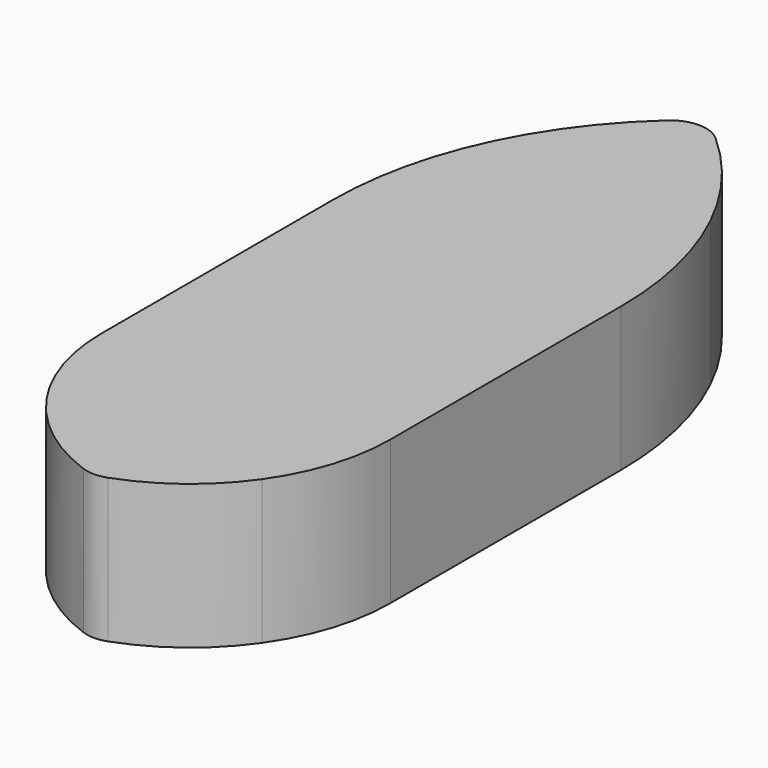
from build123d import *

# Parameters (mm, degrees)
F1_DEPTH = 38.1


with BuildPart() as f1:
    # F0 (on Top) → F1 (new body, symmetric)
    with BuildSketch(Plane.XY):
        with BuildLine():
            ThreePointArc((-57.303448, 158.919445), (-71.415787, 118.625188), (-76.2, 76.2))
            Line((-76.2, 76.2), (-76.2, -76.2))
            ThreePointArc((-76.2, -76.2), (-71.296996, -108.039645), (-57.042274, -136.929182))
            ThreePointArc((-57.042274, -136.929182), (-34.756607, -160.191845), (-6.504878, -175.672228))
            ThreePointArc((-6.504878, -175.672228), (0, -176.817227), (6.504878, -175.672228))
            ThreePointArc((6.504878, -175.672228), (34.756607, -160.191845), (57.042274, -136.929182))
            ThreePointArc((57.042274, -136.929182), (71.296996, -108.039645), (76.2, -76.2))
            Line((76.2, -76.2), (76.2, 76.2))
            ThreePointArc((76.2, 76.2), (71.415787, 118.625188), (57.303448, 158.919445))
            ThreePointArc((57.303448, 158.919445), (37.914532, 190.746873), (12.7, 218.190317))
            ThreePointArc((12.7, 218.190317), (0, 223.041285), (-12.7, 218.190317))
            ThreePointArc((-12.7, 218.190317), (-37.914532, 190.746873), (-57.303448, 158.919445))
        make_face()
    extrude(amount=F1_DEPTH, both=True)


solid = f1.part
